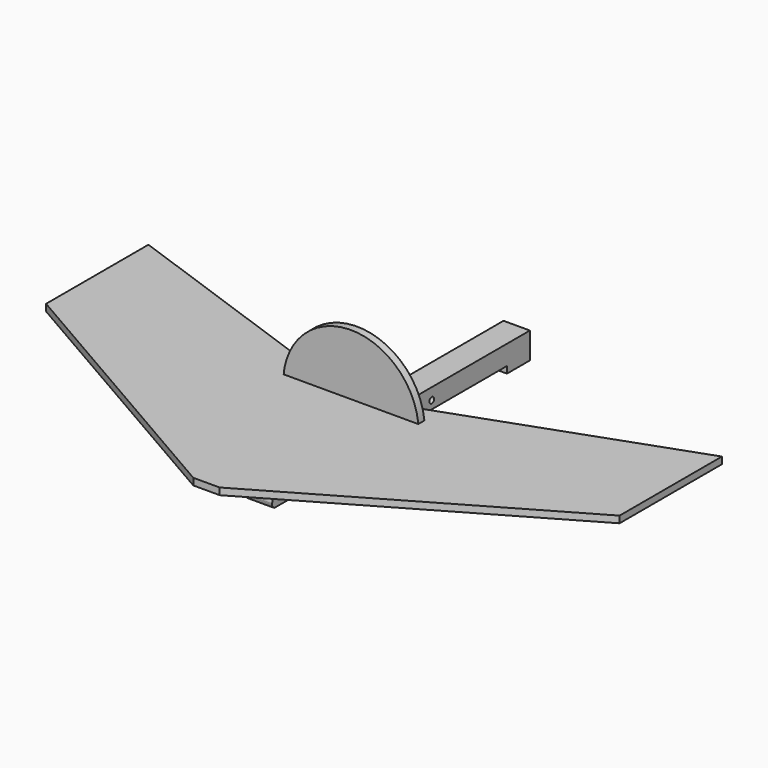
from build123d import *

# Parameters (mm, degrees)
F1_DEPTH = 9
F2_R     = 90
F3_DEPTH = 10
F4_R     = 3.904465
F5_DEPTH = 35


with BuildPart() as f1:
    # F0 (on Top) → F1 (new body)
    with BuildSketch(Plane.XY):
        Polygon((-17.5, 0), (-381, 129.866823), (-381, -40.133177), (-17.5, -250), (17.5, -250), (381, -40.133177), (381, 129.866823), (17.5, 0), (0, 0), align=None)
    extrude(amount=F1_DEPTH)


with BuildPart() as f3:
    # F2 (on Front) → F3 (new body)
    with BuildSketch(Plane.XZ):
        Circle(F2_R)
    extrude(amount=F3_DEPTH)


with BuildPart() as f5:
    # F4 (on Right) → F5 (new body)
    with BuildSketch(Plane.YZ):
        with BuildLine():
            Line((-114.608236, -37.247673), (-44.608236, -37.247673))
            Line((-44.608236, -37.247673), (-44.608236, -28.247673))
            Line((-44.608236, -28.247673), (80.391764, -28.247673))
            Line((80.391764, -28.247673), (205.391764, -28.247673))
            Line((205.391764, -28.247673), (205.391764, -37.247673))
            Line((205.391764, -37.247673), (243.391764, -37.247673))
            Line((243.391764, -37.247673), (243.391764, -2.247673))
            Line((243.391764, -2.247673), (-107.195699, -2.247673))
            ThreePointArc((-107.195699, -2.247673), (-114.528097, -2.788236), (-121.70195, -4.398236))
            Line((-121.70195, -4.398236), (-177.509486, -21.3171))
            ThreePointArc((-177.509486, -21.3171), (-182.639814, -24.929324), (-184.608236, -30.886987))
            Line((-184.608236, -30.886987), (-184.608236, -32.247673))
            ThreePointArc((-184.608236, -32.247673), (-183.14377, -35.783207), (-179.608236, -37.247673))
            Line((-179.608236, -37.247673), (-114.608236, -37.247673))
        make_face()
        with Locations((80.391764, -17.60412)):
            Circle(F4_R, mode=Mode.SUBTRACT)
    extrude(amount=F5_DEPTH)


solid = Compound([f1.part, f3.part, f5.part])
